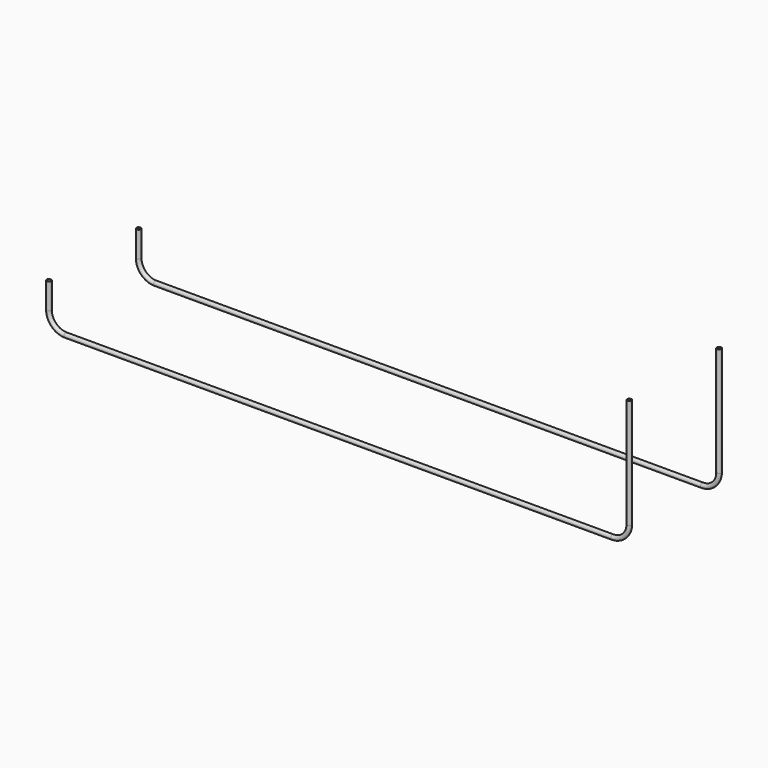
from build123d import *

# Parameters (mm, degrees)
F0_R     = 4.7625
F0_R_2   = 4
F1_DEPTH = 35
F2_DEPTH = 66.5
F3_DEPTH = 1035
F5_DEPTH = 1035
F8_R     = 3.956
F8_R_2   = 3.25


with BuildPart() as f1:
    # F0 (on Right) → F1 (new body)
    with BuildSketch(Plane.YZ):
        Circle(F0_R)
        Circle(F0_R_2, mode=Mode.SUBTRACT)
    extrude(amount=F1_DEPTH)


with BuildPart() as f2:
    # F0 (on Right) → F2 (new body)
    with BuildSketch(Plane.YZ):
        Circle(F0_R)
        Circle(F0_R_2, mode=Mode.SUBTRACT)
    extrude(amount=-F2_DEPTH)


with BuildPart() as f3:
    # F0 (on Right) → F3 (new body)
    with BuildSketch(Plane.YZ):
        Circle(F0_R)
        Circle(F0_R_2, mode=Mode.SUBTRACT)
    extrude(amount=F3_DEPTH)


with BuildPart() as f5:
    # F0 (on Right) → F5 (new body)
    with BuildSketch(Plane.YZ):
        Circle(F0_R)
        Circle(F0_R_2, mode=Mode.SUBTRACT)
    extrude(amount=-F5_DEPTH)


with BuildPart() as f9:
    # F9: sweep along a path in F6
    with BuildLine(Plane.XZ) as f9_path:
        Line((0, 76.2), (0, 30))
        ThreePointArc((0, 30), (8.7867965644, 8.7867965644), (30, 0))
        Line((30, 0), (1005, 0))
        ThreePointArc((1005, 0), (1026.2132034356, 8.7867965644), (1035, 30))
        Line((1035, 30), (1035, 225))
    # F8 (on offset) → F9 (sweep)
    with BuildSketch(Plane.XY.offset(76.2)):
        Circle(F8_R)
        Circle(F8_R_2, mode=Mode.SUBTRACT)
    sweep(path=f9_path.line)


with BuildPart() as f11_1:
    # F11: instance of F9
    add(f9.part.mirror(Plane.XZ.offset(100)))


solid = Compound([f9.part, f11_1.part])
